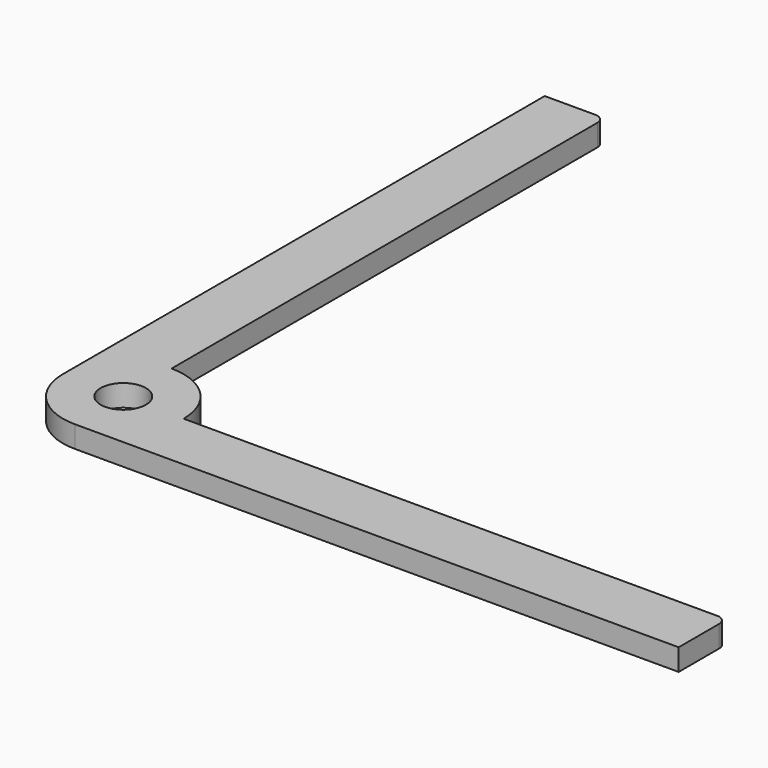
from build123d import *

# Parameters (mm, degrees)
F0_R     = 4.7625
F1_DEPTH = 4.572
F2_R     = 2.032


with BuildPart() as f1:
    # F0 (on Top) → F1 (new body)
    with BuildSketch(Plane.XY):
        with BuildLine():
            ThreePointArc((0, -12.7), (8.980256, -8.980256), (12.7, 0))
            ThreePointArc((12.7, 0), (8.980256, 8.980256), (0, 12.7))
            ThreePointArc((0, 12.7), (-8.980256, 8.980256), (-12.7, 0))
            ThreePointArc((-12.7, 0), (-8.980256, -8.980256), (0, -12.7))
        make_face()
        Circle(F0_R, mode=Mode.SUBTRACT)
        with BuildLine():
            Line((127, 0), (12.7, 0))
            ThreePointArc((12.7, 0), (8.980256, -8.980256), (0, -12.7))
            Line((0, -12.7), (127, -12.7))
            Line((127, -12.7), (127, 0))
        make_face()
        with BuildLine():
            ThreePointArc((-12.7, 0), (-8.980256, 8.980256), (0, 12.7))
            Line((0, 12.7), (0, 126.691781))
            Line((0, 126.691781), (-12.7, 126.691781))
            Line((-12.7, 126.691781), (-12.7, 0))
        make_face()
    extrude(amount=F1_DEPTH)

    # F2
    f2_edges = [f1.edges().sort_by_distance(p)[0] for p in [
        (0, 126.691781, 2.286),
        (127, 0, 2.286),
    ]]
    fillet(f2_edges, radius=F2_R)


solid = f1.part
